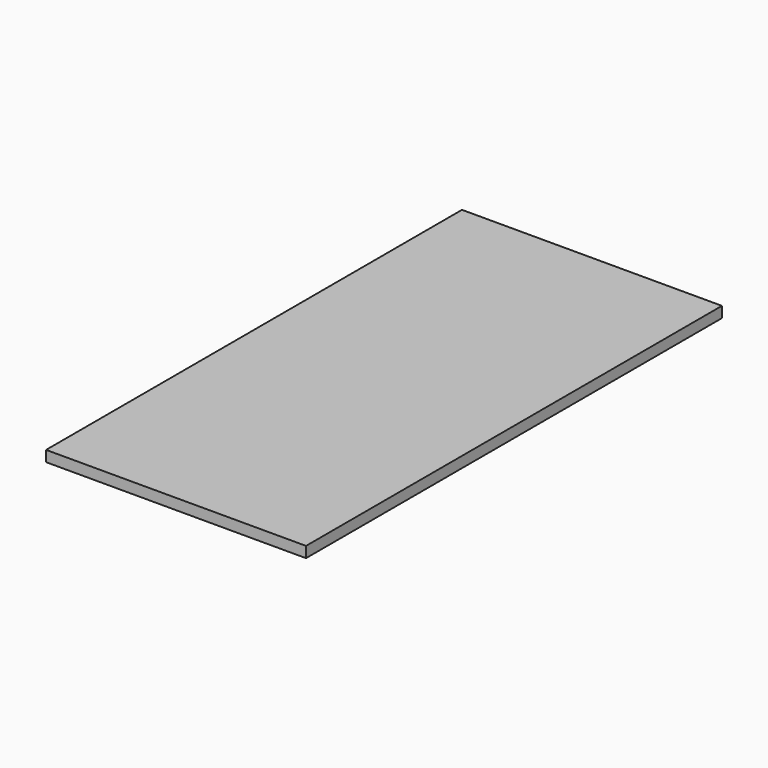
from build123d import *

# Parameters (mm, degrees)
SKETCH_W  = 457.2
SKETCH_H  = 914.4
PAD_DEPTH = 19.05


with BuildPart() as part:
    # Sketch → Pad (new body)
    with BuildSketch(Plane.XY):
        with Locations((228.6, 457.2)):
            Rectangle(SKETCH_W, SKETCH_H)
    extrude(amount=PAD_DEPTH)


solid = part.part
